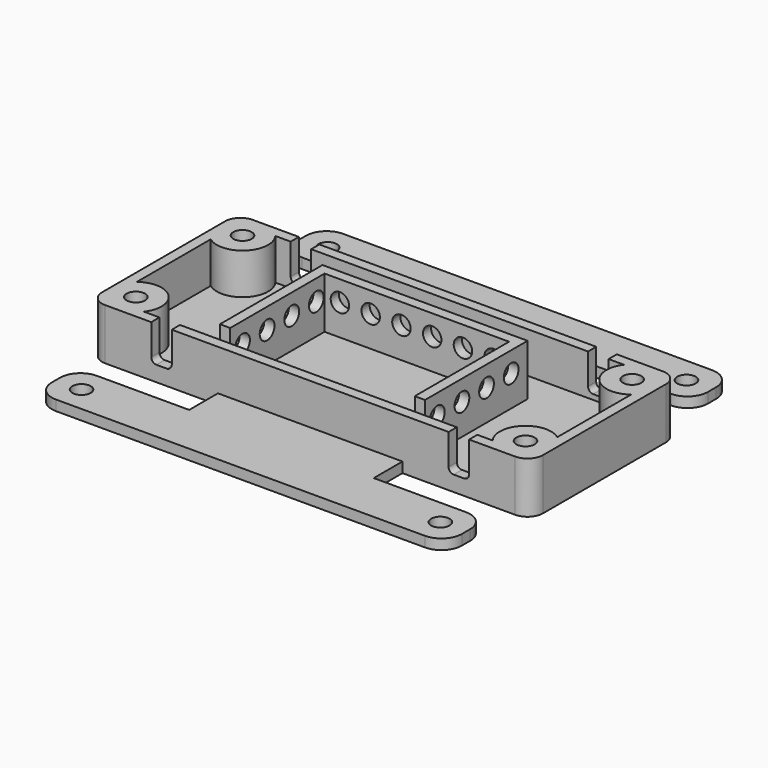
from build123d import *

# Parameters (mm, degrees)
CYLINDER062_R       = 1.8
CYLINDER062_DEPTH   = 12
ARRAY001032_X_COUNT = 2
ARRAY001032_X_PITCH = 76
ARRAY001032_Y_COUNT = 2
ARRAY001032_Y_PITCH = 26
BOX036_W            = 4
BOX036_H            = 50
BOX036_DEPTH        = 10
FILLET018_R         = 1
ARRAY001038_X_COUNT = 2
ARRAY001038_X_PITCH = 58
CYLINDER064_R       = 3
CYLINDER064_DEPTH   = 12
ARRAY001034_X_COUNT = 2
ARRAY001034_X_PITCH = 76
ARRAY001034_Y_COUNT = 2
ARRAY001034_Y_PITCH = 26
CYLINDER063_R       = 5
CYLINDER063_DEPTH   = 10
ARRAY001033_X_COUNT = 2
ARRAY001033_X_PITCH = 76
ARRAY001033_Y_COUNT = 2
ARRAY001033_Y_PITCH = 26
CYLINDER066_R       = 1.8
CYLINDER066_DEPTH   = 50
ARRAY001036_Y_COUNT = 4
ARRAY001036_Y_PITCH = 6
BOX033_W            = 36
BOX033_H            = 25
BOX033_DEPTH        = 10
CYLINDER065_R       = 1.8
CYLINDER065_DEPTH   = 20
ARRAY001035_X_COUNT = 6
ARRAY001035_X_PITCH = 6
BOX032_W            = 40
BOX032_H            = 25
BOX032_DEPTH        = 10
BOX035_W            = 30
BOX035_H            = 50
BOX035_DEPTH        = 2
CYLINDER067_R       = 1.8
CYLINDER067_DEPTH   = 10
ARRAY001037_X_COUNT = 2
ARRAY001037_X_PITCH = 70
ARRAY001037_Y_COUNT = 2
ARRAY001037_Y_PITCH = 60
BOX034_W            = 80
BOX034_H            = 70
BOX034_DEPTH        = 2
FILLET017_R         = 4
BOX031_W            = 82
BOX031_H            = 32
BOX031_DEPTH        = 10
FILLET016_R         = 3
BOX029_W            = 86
BOX029_H            = 36
BOX029_DEPTH        = 10
FILLET015_R         = 3


with BuildPart() as obj1:
    # Cylinder062 → Cylinder062 (new body)
    with BuildSketch(Plane(origin=(5, 5, 0), x_dir=(1, 0, 0), z_dir=(0, 0, 1))):
        Circle(CYLINDER062_R)
    extrude(amount=CYLINDER062_DEPTH)

    # Array001032 X: obj1_2


with BuildPart() as obj1_1:
    add(obj1.part)
    with Locations(*[(i * ARRAY001032_X_PITCH, 0, 0) for i in range(1, ARRAY001032_X_COUNT)]):
        add(obj1.part)

    # Array001032 Y: obj1_2


with BuildPart() as obj1_2:
    add(obj1_1.part)
    with Locations(*[(0, i * ARRAY001032_Y_PITCH, 0) for i in range(1, ARRAY001032_Y_COUNT)]):
        add(obj1_1.part)


with BuildPart() as wire_hole_array:
    # Box036 → Box036 (new body)
    with BuildSketch(Plane(origin=(12, -7, 3), x_dir=(1, 0, 0), z_dir=(0, 0, 1))):
        with Locations((2, 25)):
            Rectangle(BOX036_W, BOX036_H)
    extrude(amount=BOX036_DEPTH)

    # Fillet018
    fillet018_edges = [wire_hole_array.edges().sort_by_distance(p)[0] for p in [
        (12, 18, 13),
        (12, 18, 3),
        (16, 18, 13),
        (16, 18, 3),
    ]]
    fillet(fillet018_edges, radius=FILLET018_R)

    # Array001038 X: wire hole array ×2


with BuildPart() as wire_hole_array_1:
    add(wire_hole_array.part)
    with Locations(*[(i * ARRAY001038_X_PITCH, 0, 0) for i in range(1, ARRAY001038_X_COUNT)]):
        add(wire_hole_array.part)


with BuildPart() as obj2:
    # Cylinder064 → Cylinder064 (new body)
    with BuildSketch(Plane(origin=(5, 5, -6), x_dir=(1, 0, 0), z_dir=(0, 0, 1))):
        Circle(CYLINDER064_R)
    extrude(amount=CYLINDER064_DEPTH)

    # Array001034 X: obj2_2


with BuildPart() as obj2_1:
    add(obj2.part)
    with Locations(*[(i * ARRAY001034_X_PITCH, 0, 0) for i in range(1, ARRAY001034_X_COUNT)]):
        add(obj2.part)

    # Array001034 Y: obj2_2


with BuildPart() as obj2_2:
    add(obj2_1.part)
    with Locations(*[(0, i * ARRAY001034_Y_PITCH, 0) for i in range(1, ARRAY001034_Y_COUNT)]):
        add(obj2_1.part)

    # Fusion043: union obj1, wire hole array
    add(obj1_2.part)
    add(wire_hole_array_1.part)


with BuildPart() as obj3:
    # Cylinder063 → Cylinder063 (new body)
    with BuildSketch(Plane(origin=(5, 5, 0), x_dir=(1, 0, 0), z_dir=(0, 0, 1))):
        Circle(CYLINDER063_R)
    extrude(amount=CYLINDER063_DEPTH)

    # Array001033 X: obj3_2


with BuildPart() as obj3_1:
    add(obj3.part)
    with Locations(*[(i * ARRAY001033_X_PITCH, 0, 0) for i in range(1, ARRAY001033_X_COUNT)]):
        add(obj3.part)

    # Array001033 Y: obj3_2


with BuildPart() as obj3_2:
    add(obj3_1.part)
    with Locations(*[(0, i * ARRAY001033_Y_PITCH, 0) for i in range(1, ARRAY001033_Y_COUNT)]):
        add(obj3_1.part)


with BuildPart() as led_hole_array001:
    # Cylinder066 → Cylinder066 (new body)
    with BuildSketch(Plane(origin=(19, 6, 6), x_dir=(0, 1, 0), z_dir=(1, 0, 0))):
        Circle(CYLINDER066_R)
    extrude(amount=CYLINDER066_DEPTH)

    # Array001036 Y: led hole array001 ×4


with BuildPart() as led_hole_array001_1:
    add(led_hole_array001.part)
    with Locations(*[(0, i * ARRAY001036_Y_PITCH, 0) for i in range(1, ARRAY001036_Y_COUNT)]):
        add(led_hole_array001.part)


with BuildPart() as led_wall_extraction:
    # Box033 → Box033 (new body)
    with BuildSketch(Plane(origin=(25, 1, 0), x_dir=(1, 0, 0), z_dir=(0, 0, 1))):
        with Locations((18, 12.5)):
            Rectangle(BOX033_W, BOX033_H)
    extrude(amount=BOX033_DEPTH)


with BuildPart() as led_hole_fusion:
    # Cylinder065 → Cylinder065 (new body)
    with BuildSketch(Plane(origin=(28, 37, 6), x_dir=(1, 0, 0), z_dir=(0, -1, 0))):
        Circle(CYLINDER065_R)
    extrude(amount=CYLINDER065_DEPTH)

    # Array001035 X: led hole fusion ×6


with BuildPart() as led_hole_fusion_1:
    add(led_hole_fusion.part)
    with Locations(*[(i * ARRAY001035_X_PITCH, 0, 0) for i in range(1, ARRAY001035_X_COUNT)]):
        add(led_hole_fusion.part)

    # Fusion044: union led hole array001, led wall extraction
    add(led_hole_array001_1.part)
    add(led_wall_extraction.part)


with BuildPart() as led_wall_cut:
    # Box032 → Box032 (new body)
    with BuildSketch(Plane(origin=(23, 3, 0), x_dir=(1, 0, 0), z_dir=(0, 0, 1))):
        with Locations((20, 12.5)):
            Rectangle(BOX032_W, BOX032_H)
    extrude(amount=BOX032_DEPTH)

    # Cut023008: cut led hole fusion
    add(led_hole_fusion_1.part, mode=Mode.SUBTRACT)


with BuildPart() as led_wall_cut_1:
    # Cut023008 placement: moved
    add(led_wall_cut.part.moved(Location((0, 0, 2))))


with BuildPart() as cube:
    # Box035 → Box035 (new body)
    with BuildSketch(Plane(origin=(58, 10, 0), x_dir=(1, 0, 0), z_dir=(0, 0, 1))):
        with Locations((15, 25)):
            Rectangle(BOX035_W, BOX035_H)
    extrude(amount=BOX035_DEPTH)


with BuildPart() as bottom_outer_hole_array:
    # Cylinder067 → Cylinder067 (new body)
    with BuildSketch(Plane(origin=(5, 5, 0), x_dir=(1, 0, 0), z_dir=(0, 0, 1))):
        Circle(CYLINDER067_R)
    extrude(amount=CYLINDER067_DEPTH)

    # Array001037 X: bottom outer hole array ×2


with BuildPart() as bottom_outer_hole_array_1:
    add(bottom_outer_hole_array.part)
    with Locations(*[(i * ARRAY001037_X_PITCH, 0, 0) for i in range(1, ARRAY001037_X_COUNT)]):
        add(bottom_outer_hole_array.part)

    # Array001037 Y: bottom outer hole array ×2


with BuildPart() as bottom_outer_hole_array_2:
    add(bottom_outer_hole_array_1.part)
    with Locations(*[(0, i * ARRAY001037_Y_PITCH, 0) for i in range(1, ARRAY001037_Y_COUNT)]):
        add(bottom_outer_hole_array_1.part)


with BuildPart() as bottom_outer_extraction_fusion:
    # Part__Mirroring001: instance of Cube
    add(cube.part.mirror(Plane(origin=(40, 0, 0), x_dir=(0, -1, 0), z_dir=(1, 0, 0))))

    # Fusion045: union Cube, bottom outer hole array
    add(cube.part)
    add(bottom_outer_hole_array_2.part)


with BuildPart() as bottom_outer_plate_fillet:
    # Box034 → Box034 (new body)
    with BuildSketch(Plane.XY):
        with Locations((40, 35)):
            Rectangle(BOX034_W, BOX034_H)
    extrude(amount=BOX034_DEPTH)

    # Cut023009: cut bottom outer extraction fusion
    add(bottom_outer_extraction_fusion.part, mode=Mode.SUBTRACT)


with BuildPart() as bottom_outer_plate_fillet_1:
    # Cut023009 placement: moved
    add(bottom_outer_plate_fillet.part.moved(Location((3, -17, 0))))

    # Fillet017
    fillet017_edges = [bottom_outer_plate_fillet_1.edges().sort_by_distance(p)[0] for p in [
        (3, -7, 1),
        (3, -17, 1),
        (83, -17, 1),
        (3, 43, 1),
        (3, 53, 1),
        (83, 53, 1),
        (83, 43, 1),
        (83, -7, 1),
    ]]
    fillet(fillet017_edges, radius=FILLET017_R)


with BuildPart() as obj4:
    # Box031 → Box031 (new body)
    with BuildSketch(Plane(origin=(2, 2, 2), x_dir=(1, 0, 0), z_dir=(0, 0, 1))):
        with Locations((41, 16)):
            Rectangle(BOX031_W, BOX031_H)
    extrude(amount=BOX031_DEPTH)

    # Fillet016
    fillet016_edges = [obj4.edges().sort_by_distance(p)[0] for p in [
        (2, 2, 7),
        (2, 34, 7),
        (84, 2, 7),
        (84, 34, 7),
    ]]
    fillet(fillet016_edges, radius=FILLET016_R)


with BuildPart() as obj5:
    # Box029 → Box029 (new body)
    with BuildSketch(Plane.XY):
        with Locations((43, 18)):
            Rectangle(BOX029_W, BOX029_H)
    extrude(amount=BOX029_DEPTH)

    # Fillet015
    fillet015_edges = [obj5.edges().sort_by_distance(p)[0] for p in [
        (0, 0, 5),
        (0, 36, 5),
        (86, 0, 5),
        (86, 36, 5),
    ]]
    fillet(fillet015_edges, radius=FILLET015_R)

    # Cut023006: cut obj4
    add(obj4.part, mode=Mode.SUBTRACT)

    # Fusion042: union obj3, led wall cut, bottom outer plate fillet
    add(obj3_2.part)
    add(led_wall_cut_1.part)
    add(bottom_outer_plate_fillet_1.part)

    # Cut023007: cut obj2
    add(obj2_2.part, mode=Mode.SUBTRACT)


solid = obj5.part
